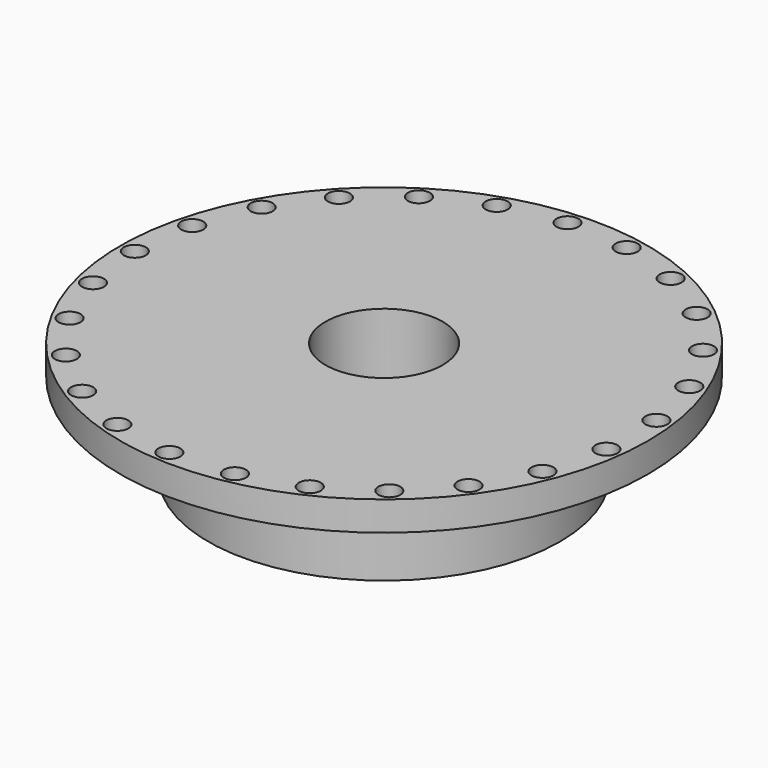
from build123d import *

# Parameters (mm, degrees)
F0_R     = 12
F1_DEPTH = 6
F2_R     = 18
F3_DEPTH = 2
F5_D     = 1.5
F6_R     = 4
F7_DEPTH = 8.001
F9_D     = 2.5
F9_DEPTH = 18.001


with BuildPart() as f1:
    # F0 (on Top) → F1 (new body)
    with BuildSketch(Plane.XY):
        Circle(F0_R)
    extrude(amount=F1_DEPTH)

    # F2 (on face) → F3 (join)
    with BuildSketch(Plane.XY.offset(6)):
        Circle(F2_R)
    extrude(amount=F3_DEPTH)

    # F5 (through all)
    with Locations(Plane.XY.offset(8)):
        with Locations((-17, 0), (-16.4659137392, 4.2277280818), (-14.8972135607, 8.1898124597), (-12.3924666662, 11.6373008008), (-9.1090555146, 14.3535747335), (-5.2532889044, 16.167960777), (-1.067438832, 16.9664543833), (3.185482348, 16.6988832624), (7.2382479566, 15.3820598919), (10.8362078257, 13.0987251272), (13.7532889044, 9.992349289), (15.8062002601, 6.2581173956), (-16.4659137392, -4.2277280818), (-14.8972135607, -8.1898124597), (-12.3924666662, -11.6373008008), (-9.1090555146, -14.3535747335), (-5.2532889044, -16.167960777), (-1.067438832, -16.9664543833), (3.185482348, -16.6988832624), (7.2382479566, -15.3820598919), (10.8362078257, -13.0987251272), (13.7532889044, -9.992349289), (15.8062002601, -6.2581173956), (16.8659499223, -2.1306649706), (16.8659499223, 2.1306649706)):
            Hole(F5_D / 2)

    # F6 (on face) → F7 (cut, through all)
    with BuildSketch(Plane(origin=(0, 0, 0), x_dir=(1, 0, 0), z_dir=(0, 0, -1))):
        Circle(F6_R)
    extrude(amount=-F7_DEPTH, mode=Mode.SUBTRACT)

    # F9 (through all, one way)
    with BuildSketch(Plane.XZ):
        with Locations((0, 3)):
            Circle(F9_D / 2)
    extrude(amount=-F9_DEPTH, mode=Mode.SUBTRACT)


solid = f1.part
